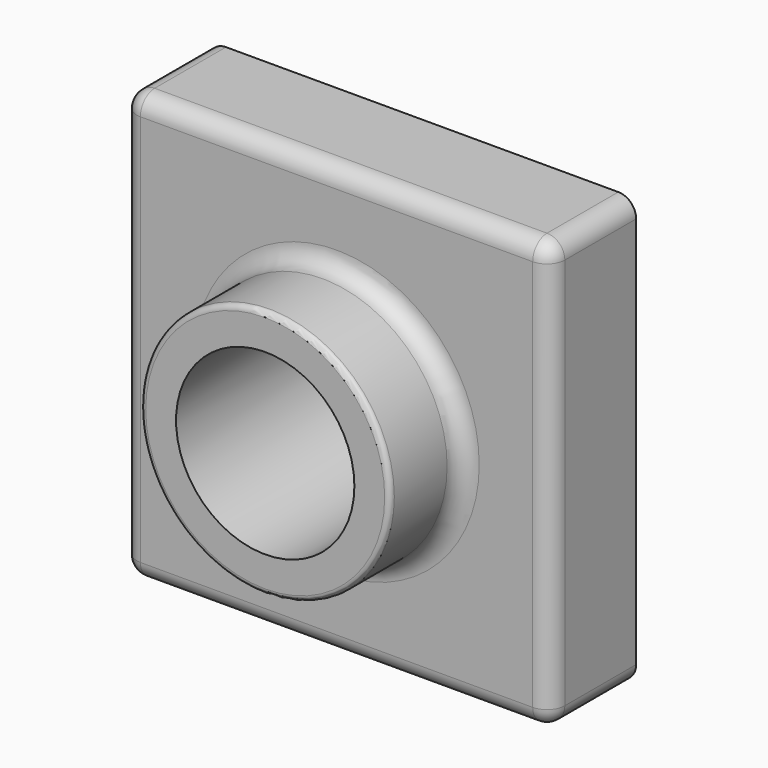
from build123d import *

# Parameters (mm, degrees)
F0_W     = 120
F0_H     = 120
F1_DEPTH = 30
F2_R     = 35
F3_DEPTH = 25
F4_R     = 25
F5_DEPTH = 55.001
F6_R     = 5
F7_R     = 1.5
F8_T     = -2


with BuildPart() as f1:
    # F0 (on Front) → F1 (new body)
    with BuildSketch(Plane.XZ):
        Rectangle(F0_W, F0_H)
    extrude(amount=F1_DEPTH)

    # F2 (on face) → F3 (join)
    with BuildSketch(Plane.XZ.offset(30)):
        Circle(F2_R)
    extrude(amount=F3_DEPTH)

    # F4 (on face) → F5 (cut, through all)
    with BuildSketch(Plane.XZ.offset(55)):
        Circle(F4_R)
    extrude(amount=-F5_DEPTH, mode=Mode.SUBTRACT)

    # F6
    f6_edges = [f1.edges().sort_by_distance(p)[0] for p in [
        (-35, -30, 0),
        (0, -30, 60),
        (60, -30, 0),
        (60, -15, 60),
        (60, -15, -60),
        (0, -30, -60),
        (-60, -15, -60),
        (-60, -30, 0),
        (-60, -15, 60),
    ]]
    fillet(f6_edges, radius=F6_R)

    # F7
    f7_edges = [f1.edges().sort_by_distance(p)[0] for p in [
        (-35, -55, 0),
    ]]
    fillet(f7_edges, radius=F7_R)

    # F8
    f8_openings = [f1.faces().sort_by_distance(p)[0] for p in [
        (58.302944, 0, 0),
    ]]
    offset(amount=F8_T, openings=f8_openings)


solid = f1.part
